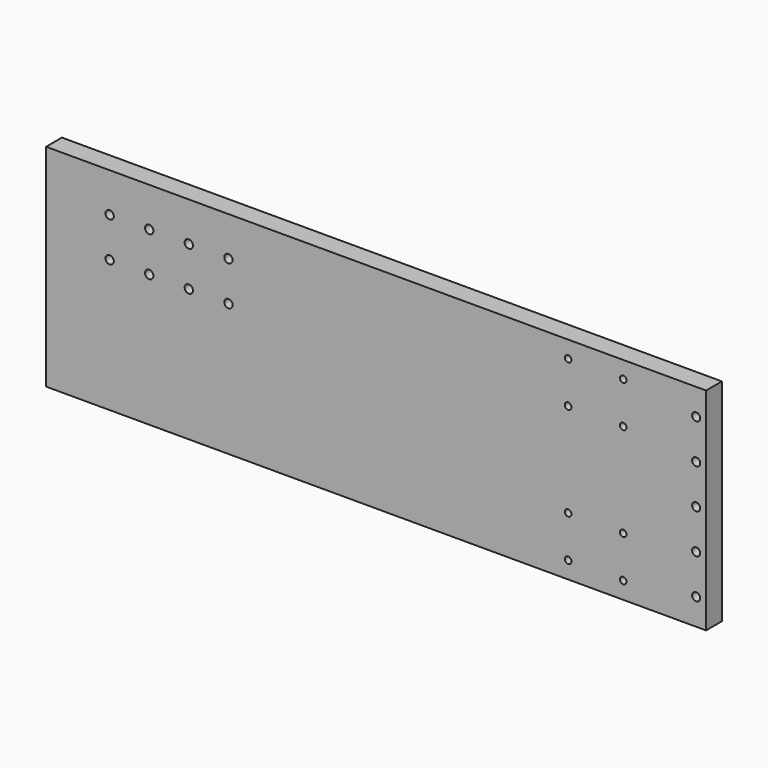
from build123d import *

# Parameters (mm, degrees)
F0_W      = 635
F0_H      = 203.2
F1_DEPTH  = 19.05
F2_R      = 3.99923
F3_DEPTH  = 19.051
F4_R      = 3.175
F5_DEPTH  = 19.051
F6_R      = 3.8735
F7_DEPTH  = 19.051
F8_R      = 6.985
F9_DEPTH  = 3.81
F10_R     = 7.849432
F11_DEPTH = 3.81
F12_R     = 5.461
F13_DEPTH = 3.81


with BuildPart() as f1:
    # F0 (on Front) → F1 (new body)
    with BuildSketch(Plane.XZ):
        Rectangle(F0_W, F0_H)
    extrude(amount=F1_DEPTH)

    # F2 (on face) → F3 (cut, through all)
    with BuildSketch(Plane.XZ.offset(19.05)):
        with Locations((-256.3622, 63.8302)):
            Circle(F2_R)
        with Locations((-218.2622, 63.8302)):
            Circle(F2_R)
        with Locations((-180.1622, 63.8302)):
            Circle(F2_R)
        with Locations((-142.0622, 63.8302)):
            Circle(F2_R)
        with Locations((-142.0622, 25.7302)):
            Circle(F2_R)
        with Locations((-180.1622, 25.7302)):
            Circle(F2_R)
        with Locations((-218.2622, 25.7302)):
            Circle(F2_R)
        with Locations((-256.3622, 25.7302)):
            Circle(F2_R)
    extrude(amount=-F3_DEPTH, mode=Mode.SUBTRACT)

    # F4 (on face) → F5 (cut, through all)
    with BuildSketch(Plane.XZ.offset(19.05)):
        with Locations((184.7596, 85.2678)):
            Circle(F4_R)
        with Locations((237.7694, 85.2678)):
            Circle(F4_R)
        with Locations((184.7596, 45.2628)):
            Circle(F4_R)
        with Locations((237.7694, 45.2628)):
            Circle(F4_R)
        with Locations((184.7596, -45.2628)):
            Circle(F4_R)
        with Locations((237.7694, -45.2628)):
            Circle(F4_R)
        with Locations((184.7596, -85.2678)):
            Circle(F4_R)
        with Locations((237.7694, -85.2678)):
            Circle(F4_R)
    extrude(amount=-F5_DEPTH, mode=Mode.SUBTRACT)

    # F6 (on face) → F7 (cut, through all)
    with BuildSketch(Plane.XZ.offset(19.05)):
        with Locations((307.975, 76.2)):
            Circle(F6_R)
        with Locations((307.975, 38.1)):
            Circle(F6_R)
        with Locations((307.975, 0)):
            Circle(F6_R)
        with Locations((307.975, -38.1)):
            Circle(F6_R)
        with Locations((307.975, -76.2)):
            Circle(F6_R)
    extrude(amount=-F7_DEPTH, mode=Mode.SUBTRACT)

    # F8 (on face) → F9 (cut)
    with BuildSketch(Plane(origin=(0, 0, 0), x_dir=(-1, 0, 0), z_dir=(0, 1, 0))):
        with Locations((142.0622, 63.8302)):
            Circle(F8_R)
        with Locations((180.1622, 63.8302)):
            Circle(F8_R)
        with Locations((218.2622, 63.8302)):
            Circle(F8_R)
        with Locations((256.3622, 63.8302)):
            Circle(F8_R)
        with Locations((142.0622, 25.7302)):
            Circle(F8_R)
        with Locations((180.1622, 25.7302)):
            Circle(F8_R)
        with Locations((218.2622, 25.7302)):
            Circle(F8_R)
        with Locations((256.3622, 25.7302)):
            Circle(F8_R)
    extrude(amount=-F9_DEPTH, mode=Mode.SUBTRACT)

    # F10 (on face) → F11 (cut)
    with BuildSketch(Plane(origin=(0, 0, 0), x_dir=(-1, 0, 0), z_dir=(0, 1, 0))):
        with Locations((-307.975, 76.2)):
            Circle(F10_R)
        with Locations((-307.975, 38.1)):
            Circle(F10_R)
        with Locations((-307.975, 0)):
            Circle(F10_R)
        with Locations((-307.975, -38.1)):
            Circle(F10_R)
        with Locations((-307.975, -76.2)):
            Circle(F10_R)
    extrude(amount=-F11_DEPTH, mode=Mode.SUBTRACT)

    # F12 (on face) → F13 (cut)
    with BuildSketch(Plane(origin=(0, 0, 0), x_dir=(-1, 0, 0), z_dir=(0, 1, 0))):
        with Locations((-237.7694, 85.2678)):
            Circle(F12_R)
        with Locations((-184.7596, 85.2678)):
            Circle(F12_R)
        with Locations((-184.7596, 45.2628)):
            Circle(F12_R)
        with Locations((-237.7694, 45.2628)):
            Circle(F12_R)
        with Locations((-237.7694, -45.2628)):
            Circle(F12_R)
        with Locations((-184.7596, -45.2628)):
            Circle(F12_R)
        with Locations((-184.7596, -85.2678)):
            Circle(F12_R)
        with Locations((-237.7694, -85.2678)):
            Circle(F12_R)
    extrude(amount=-F13_DEPTH, mode=Mode.SUBTRACT)


solid = f1.part
